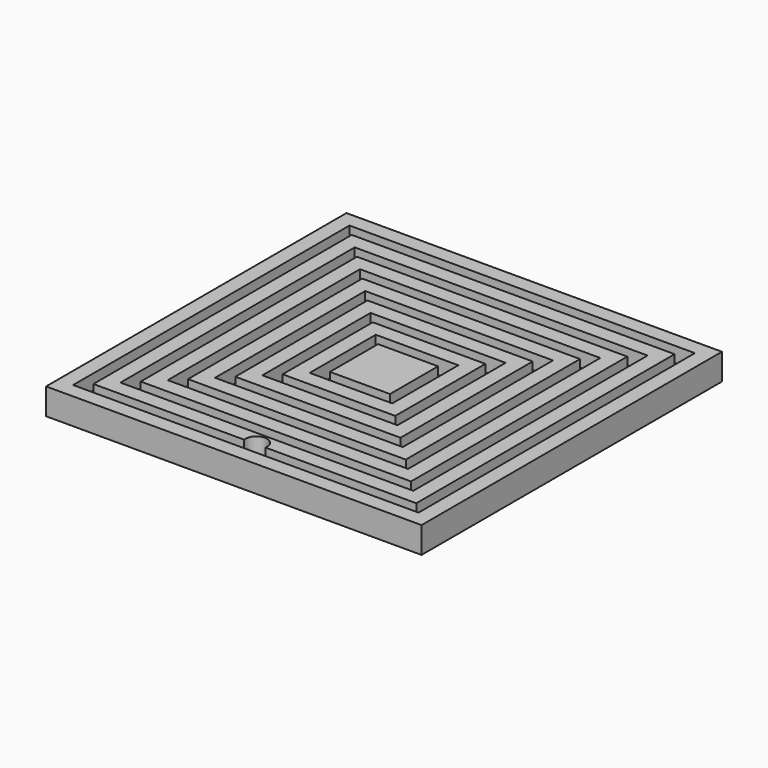
from build123d import *

# Parameters (mm, degrees)
F0_W     = 50.8
F0_H     = 50.8
F1_DEPTH = 1.524
F2_W     = 50.8
F2_H     = 50.8
F2_W_2   = 46.736
F2_H_2   = 46.736
F2_W_3   = 43.688
F2_H_3   = 43.688
F2_W_4   = 39.624
F2_H_4   = 39.624
F2_W_5   = 36.576
F2_H_5   = 36.576
F2_W_6   = 32.512
F2_H_6   = 32.512
F2_W_7   = 29.464
F2_H_7   = 29.464
F2_W_8   = 25.4
F2_H_8   = 25.4
F2_W_9   = 22.352
F2_H_9   = 22.352
F2_W_10  = 18.288
F2_H_10  = 18.288
F2_W_11  = 15.24
F2_H_11  = 15.24
F2_W_12  = 11.176
F2_H_12  = 11.176
F2_W_13  = 8.128
F2_H_13  = 8.128
F3_DEPTH = 2.032
F4_R     = 1.4605
F5_DEPTH = 25.4


with BuildPart() as f1:
    # F0 (on Top) → F1 (new body)
    with BuildSketch(Plane.XY):
        with Locations((-25.4, 25.4)):
            Rectangle(F0_W, F0_H)
    extrude(amount=F1_DEPTH)

    # F2 (on face) → F3 (join)
    with BuildSketch(Plane.XY.offset(1.524)):
        with Locations((-25.4, 25.4)):
            Rectangle(F2_W, F2_H)
        with Locations((-25.4, 25.4)):
            Rectangle(F2_W_2, F2_H_2, mode=Mode.SUBTRACT)
        with Locations((-25.4, 25.4)):
            Rectangle(F2_W_3, F2_H_3)
        with Locations((-25.4, 25.4)):
            Rectangle(F2_W_4, F2_H_4, mode=Mode.SUBTRACT)
        with Locations((-25.4, 25.4)):
            Rectangle(F2_W_5, F2_H_5)
        with Locations((-25.4, 25.4)):
            Rectangle(F2_W_6, F2_H_6, mode=Mode.SUBTRACT)
        with Locations((-25.4, 25.4)):
            Rectangle(F2_W_7, F2_H_7)
        with Locations((-25.4, 25.4)):
            Rectangle(F2_W_8, F2_H_8, mode=Mode.SUBTRACT)
        with Locations((-25.4, 25.4)):
            Rectangle(F2_W_9, F2_H_9)
        with Locations((-25.4, 25.4)):
            Rectangle(F2_W_10, F2_H_10, mode=Mode.SUBTRACT)
        with Locations((-25.4, 25.4)):
            Rectangle(F2_W_11, F2_H_11)
        with Locations((-25.4, 25.4)):
            Rectangle(F2_W_12, F2_H_12, mode=Mode.SUBTRACT)
        with Locations((-25.4, 25.4)):
            Rectangle(F2_W_13, F2_H_13)
    extrude(amount=F3_DEPTH)

    # F4 (on face) → F5 (cut)
    with BuildSketch(Plane(origin=(0, 0, 0), x_dir=(1, 0, 0), z_dir=(0, 0, -1))):
        with Locations((-25.4, -3.81)):
            Circle(F4_R)
    extrude(amount=-F5_DEPTH, mode=Mode.SUBTRACT)


solid = f1.part
